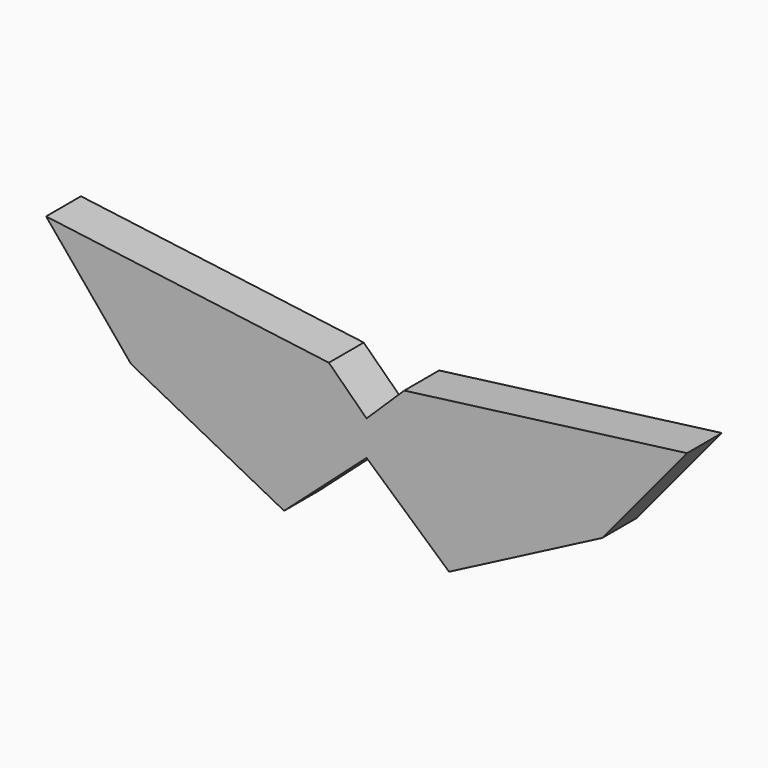
from build123d import *

# Parameters (mm, degrees)
F1_DEPTH = 6.35


with BuildPart() as f1:
    # F0 (on Front) → F1 (new body)
    with BuildSketch(Plane.XZ):
        Polygon((46.674382, 10.728177), (5.491101, 5.360277), (0, 0), (0, -5.04891), (12.01179, -15.75136), (34.319401, -4.163796), align=None)
    extrude(amount=F1_DEPTH)

    # F2: F1 across plane


with BuildPart() as f1_1:
    add(f1.part)
    add(f1.part.mirror(Plane.YZ))


solid = f1_1.part
